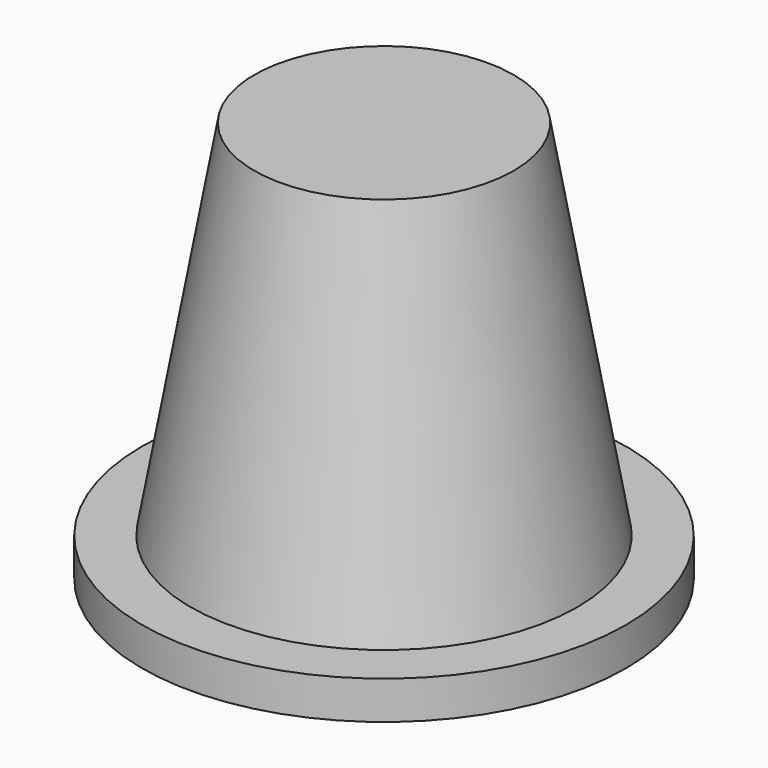
from build123d import *

# Parameters (mm, degrees)
F0_R     = 37.024457
F1_DEPTH = 5.842
F4_R     = 19.865251
F2_R     = 29.612966


with BuildPart() as f1:
    # F0 (on Top) → F1 (new body)
    with BuildSketch(Plane.XY):
        Circle(F0_R)
    extrude(amount=F1_DEPTH)


with BuildPart() as f5:
    # F4 (on offset) → F5 section 0
    with BuildSketch(Plane.XY.offset(61.468)):
        Circle(F4_R)
    # F2 (on face) → F5 section 1
    with BuildSketch(Plane.XY.offset(5.842)):
        Circle(F2_R)
    loft()


solid = Compound([f1.part, f5.part])
